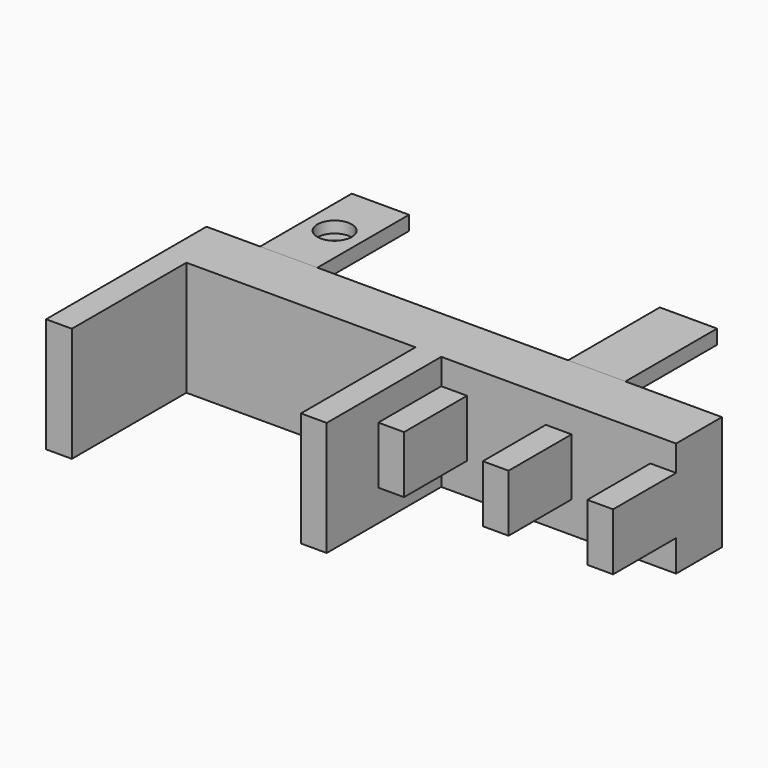
from build123d import *

# Parameters (mm, degrees)
F0_W      = 114.3
F0_H      = 25.4
F1_DEPTH  = 12.7
F2_W      = 5.715
F2_H      = 25.4
F3_DEPTH  = 31.75
F4_W      = 5.715
F4_H      = 12.7
F5_DEPTH  = 17.4625
F6_W      = 12.7
F6_H      = 25.4
F7_DEPTH  = 3.175
F8_R      = 3.81
F9_DEPTH  = 2.54
F10_R     = 1.27
F11_DEPTH = 22.861


with BuildPart() as f1:
    # F0 (on Front) → F1 (new body)
    with BuildSketch(Plane.XZ):
        with Locations((-19.607557, 12.7)):
            Rectangle(F0_W, F0_H)
    extrude(amount=-F1_DEPTH)

    # F2 (on face) → F3 (join)
    with BuildSketch(Plane.XZ):
        with Locations((-73.900057, 12.7)):
            Rectangle(F2_W, F2_H)
        Polygon((-14.527557, 25.4), (-20.242557, 25.4), (-20.242557, 0), (-14.527557, 0), (-14.527557, 6.35), (-14.527557, 19.05), align=None)
    extrude(amount=F3_DEPTH)

    # F4 (on face) → F5 (join)
    with BuildSketch(Plane.XZ):
        with Locations((-11.670057, 13.307034)):
            Rectangle(F4_W, F4_H)
        with Locations((11.507443, 13.307034)):
            Rectangle(F4_W, F4_H)
        with Locations((34.684943, 13.307034)):
            Rectangle(F4_W, F4_H)
    extrude(amount=F5_DEPTH)


with BuildPart() as f7:
    # F6 (on face) → F7 (new body)
    with BuildSketch(Plane.XY.offset(25.4)):
        with Locations((-58.50448, 25.4)):
            Rectangle(F6_W, F6_H)
        with Locations((9.796742, 25.4)):
            Rectangle(F6_W, F6_H)
    extrude(amount=-F7_DEPTH)

    # F8 (on face) → F9 (cut)
    with BuildSketch(Plane.XY.offset(25.4)):
        with Locations((-58.50448, 25.4)):
            Circle(F8_R)
    extrude(amount=-F9_DEPTH, mode=Mode.SUBTRACT)

    # F10 (on face) → F11 (cut, through all)
    with BuildSketch(Plane.XY.offset(22.86)):
        with Locations((-58.50448, 25.4)):
            Circle(F10_R)
    extrude(amount=-F11_DEPTH, mode=Mode.SUBTRACT)


solid = Compound([f1.part, f7.part])
